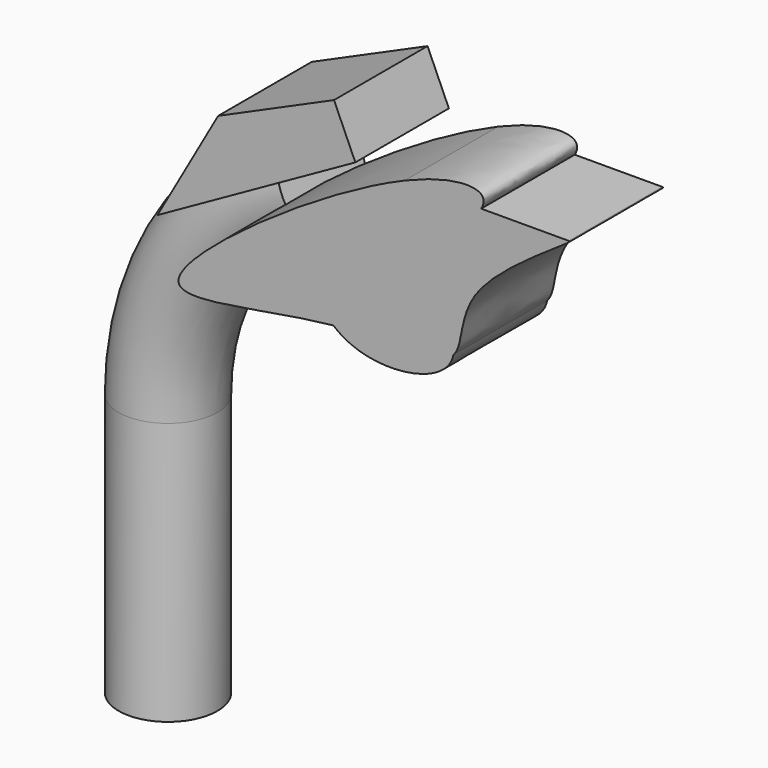
from build123d import *

# Parameters (mm, degrees)
F0_R     = 10.5563944733
F4_DEPTH = 17.4
F5_DEPTH = 25


with BuildPart() as f2:
    # F2: sweep along a path in F1
    with BuildLine(Plane.XZ) as f2_path:
        ThreePointArc((32.9693630338, 108.1880107522), (8.9368583588, 86.9712584307), (0, 56.1841763556))
        Line((0, 56.1841763556), (0, 0))
    # F0 (on Top) → F2 (sweep)
    with BuildSketch(Plane.XY):
        Circle(F0_R)
    sweep(path=f2_path.line)

    # F3 (on Front) → F4 (join)
    with BuildSketch(Plane.XZ):
        Polygon((30.7201836258, 128.7439912558), (17.7488774061, 105.8425977826), (60.0541557765, 129.5203427714), (55.4911866784, 139.7707760334), align=None)
    extrude(amount=F4_DEPTH)

    # F3 (on Front) → F5 (join)
    with BuildSketch(Plane.XZ):
        with BuildLine():
            add(Edge.make_bspline(
                [(70.5931460322, 129.5374848512), (72.0787961892, 130.1669103611), (82.3390802937, 134.1470108941), (88.9364784602, 133.4779202279), (87.0999080955, 129.7982594332), (86.9636833649, 129.5641121704)],
                knots=[0.1842071124, 0.1842071124, 0.1842071124, 0.1842071124, 0.1983505917, 0.2859572834, 0.2916534606, 0.2916534606, 0.2916534606, 0.2916534606], degree=3))
            Line((70.5931460322, 129.5374848512), (86.9636833649, 129.5641121704))
        make_face()
        with BuildLine():
            Line((86.9636833649, 129.5641121704), (70.5931460322, 129.5374848512))
            add(Edge.make_bspline(
                [(22.2367271781, 94.8094055057), (21.8099809815, 100.2190570595), (51.2437823198, 121.3397385227), (70.5931460322, 129.5374848512)],
                knots=[0, 0, 0, 0, 0.1842071124, 0.1842071124, 0.1842071124, 0.1842071124], degree=3))
            add(Edge.make_bspline(
                [(55.3720220923, 97.3064601421), (40.8845983612, 95.8756546572), (22.5679207065, 90.6110281103), (22.2367271781, 94.8094055057)],
                knots=[0.8570386708, 0.8570386708, 0.8570386708, 0.8570386708, 1, 1, 1, 1], degree=3))
            add(Edge.make_bspline(
                [(55.3720220923, 97.3064601421), (48.5019136195, 103.4207659246), (49.6477059157, 117.0994626913), (56.8694397807, 119.2096248269)],
                knots=[0.6940672743, 0.6940672743, 0.6940672743, 0.6940672743, 1, 1, 1, 1], degree=3))
            add(Edge.make_bspline(
                [(56.8694397807, 119.2096248269), (65.42174317, 121.7085741266), (82.4951694142, 107.9833870142), (81.0358300805, 100.1313924789)],
                knots=[0, 0, 0, 0, 0.3622993503, 0.3622993503, 0.3622993503, 0.3622993503], degree=3))
            add(Edge.make_bspline(
                [(105.6858077645, 129.5945644379), (107.8117109305, 129.9769098437), (80.0096882515, 114.8143425622), (83.3633906013, 102.5962098802), (81.0358300805, 100.1313924789)],
                knots=[0.512204989, 0.512204989, 0.512204989, 0.512204989, 0.6363641255, 0.7310224434, 0.7310224434, 0.7310224434, 0.7310224434], degree=3))
            add(Edge.make_bspline(
                [(86.9636833649, 129.5641121704), (84.8863296268, 125.9934925799), (65.3812215141, 111.3167629429), (103.3967493158, 129.1828754223), (105.6858077645, 129.5945644379)],
                knots=[0.2916534606, 0.2916534606, 0.2916534606, 0.2916534606, 0.3785170935, 0.512204989, 0.512204989, 0.512204989, 0.512204989], degree=3))
        make_face()
        Polygon((30.7201836258, 128.7439912558), (17.7488774061, 105.8425977826), (60.0541557765, 129.5203427714), (55.4911866784, 139.7707760334), align=None)
        with BuildLine():
            Line((105.6858077645, 129.5945644379), (86.9636833649, 129.5641121704))
            add(Edge.make_bspline(
                [(86.9636833649, 129.5641121704), (84.8863296268, 125.9934925799), (65.3812215141, 111.3167629429), (103.3967493158, 129.1828754223), (105.6858077645, 129.5945644379)],
                knots=[0.2916534606, 0.2916534606, 0.2916534606, 0.2916534606, 0.3785170935, 0.512204989, 0.512204989, 0.512204989, 0.512204989], degree=3))
        make_face()
        with BuildLine():
            add(Edge.make_bspline(
                [(55.3720220923, 97.3064601421), (48.5019136195, 103.4207659246), (49.6477059157, 117.0994626913), (56.8694397807, 119.2096248269)],
                knots=[0.6940672743, 0.6940672743, 0.6940672743, 0.6940672743, 1, 1, 1, 1], degree=3))
            add(Edge.make_bspline(
                [(81.0358300805, 100.1313924789), (77.9372075592, 96.8500433402), (68.1422620706, 98.567673298), (55.3720220923, 97.3064601421)],
                knots=[0.7310224434, 0.7310224434, 0.7310224434, 0.7310224434, 0.8570386708, 0.8570386708, 0.8570386708, 0.8570386708], degree=3))
            add(Edge.make_bspline(
                [(56.8694397807, 119.2096248269), (65.42174317, 121.7085741266), (82.4951694142, 107.9833870142), (81.0358300805, 100.1313924789)],
                knots=[0, 0, 0, 0, 0.3622993503, 0.3622993503, 0.3622993503, 0.3622993503], degree=3))
        make_face()
        with BuildLine():
            add(Edge.make_bspline(
                [(81.0358300805, 100.1313924789), (77.9372075592, 96.8500433402), (68.1422620706, 98.567673298), (55.3720220923, 97.3064601421)],
                knots=[0.7310224434, 0.7310224434, 0.7310224434, 0.7310224434, 0.8570386708, 0.8570386708, 0.8570386708, 0.8570386708], degree=3))
            add(Edge.make_bspline(
                [(81.0358300805, 100.1313924789), (79.6994711252, 92.941095492), (62.8222928035, 90.6758176319), (55.3720220923, 97.3064601421)],
                knots=[0.3622993503, 0.3622993503, 0.3622993503, 0.3622993503, 0.6940672743, 0.6940672743, 0.6940672743, 0.6940672743], degree=3))
        make_face()
    extrude(amount=F5_DEPTH)


solid = f2.part
